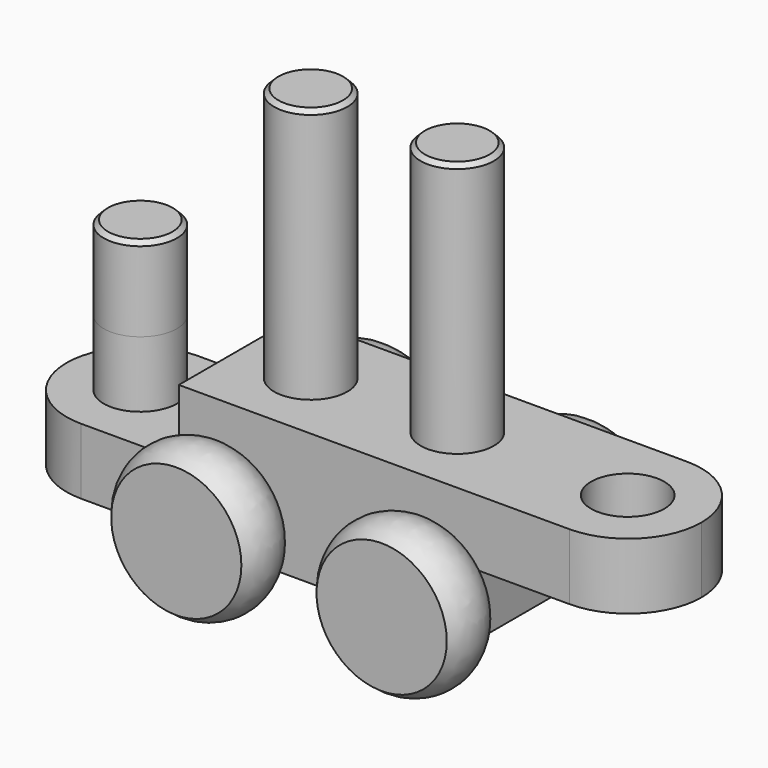
from build123d import *

# Parameters (mm, degrees)
F1_DEPTH  = 38.608
F2_DEPTH  = 74.6252
F3_DEPTH  = 19.304
F4_DEPTH  = 38.608
F5_DEPTH  = 19.304
F6_DEPTH  = 24.5872
F7_SIZE   = 1.27
F8_SIZE   = 1.27
F9_SIZE   = 1.27
F10_R     = 7.62
F10_R_2   = 6.35
F11_DEPTH = 42.8752
F12_DEPTH = 1.27
F13_DEPTH = 1.27


with BuildPart() as f1:
    # F0 (on Top) → F1 (new body)
    with BuildSketch(Plane.XY):
        with BuildLine():
            Line((0, 21.4376), (-42.8752, 21.4376))
            Line((-42.8752, 21.4376), (-42.8752, 0))
            Line((-42.8752, 0), (-32.1564, 0))
            ThreePointArc((-32.1564, 0), (-21.4376, 10.7188), (-10.7188, 0))
            Line((-10.7188, 0), (0, 0))
            Line((0, 0), (0, 21.4376))
        make_face()
        with BuildLine():
            Line((42.8752, 21.4376), (0, 21.4376))
            Line((0, 21.4376), (0, 0))
            Line((0, 0), (10.7188, 0))
            ThreePointArc((10.7188, 0), (21.4376, 10.7188), (32.1564, 0))
            Line((32.1564, 0), (42.8752, 0))
            Line((42.8752, 0), (42.8752, 21.4376))
        make_face()
        with BuildLine():
            ThreePointArc((-10.7188, 0), (-21.4376, 10.7188), (-32.1564, 0))
            Line((-32.1564, 0), (-10.7188, 0))
        make_face()
        with BuildLine():
            Line((-10.7188, 0), (-32.1564, 0))
            ThreePointArc((-32.1564, 0), (-21.4376, -10.7188), (-10.7188, 0))
        make_face()
        with BuildLine():
            ThreePointArc((32.1564, 0), (21.4376, 10.7188), (10.7188, 0))
            Line((10.7188, 0), (32.1564, 0))
        make_face()
        with BuildLine():
            Line((32.1564, 0), (10.7188, 0))
            ThreePointArc((10.7188, 0), (21.4376, -10.7188), (32.1564, 0))
        make_face()
        with BuildLine():
            Line((-32.1564, 0), (-42.8752, 0))
            Line((-42.8752, 0), (-42.8752, -21.4376))
            Line((-42.8752, -21.4376), (0, -21.4376))
            Line((0, -21.4376), (0, 0))
            Line((0, 0), (-10.7188, 0))
            ThreePointArc((-10.7188, 0), (-21.4376, -10.7188), (-32.1564, 0))
        make_face()
        with BuildLine():
            Line((10.7188, 0), (0, 0))
            Line((0, 0), (0, -21.4376))
            Line((0, -21.4376), (42.8752, -21.4376))
            Line((42.8752, -21.4376), (42.8752, 0))
            Line((42.8752, 0), (32.1564, 0))
            ThreePointArc((32.1564, 0), (21.4376, -10.7188), (10.7188, 0))
        make_face()
        with BuildLine():
            Line((-10.7188, 0), (-32.1564, 0))
            ThreePointArc((-32.1564, 0), (-21.4376, -10.7188), (-10.7188, 0))
        make_face()
        with BuildLine():
            ThreePointArc((-10.7188, 0), (-21.4376, 10.7188), (-32.1564, 0))
            Line((-32.1564, 0), (-10.7188, 0))
        make_face()
    extrude(amount=-F1_DEPTH)

    # F0 (on Top) → F2 (join)
    with BuildSketch(Plane.XY):
        with BuildLine():
            Line((-10.7188, 0), (-32.1564, 0))
            ThreePointArc((-32.1564, 0), (-21.4376, -10.7188), (-10.7188, 0))
        make_face()
        with BuildLine():
            ThreePointArc((-10.7188, 0), (-21.4376, 10.7188), (-32.1564, 0))
            Line((-32.1564, 0), (-10.7188, 0))
        make_face()
        with BuildLine():
            ThreePointArc((32.1564, 0), (21.4376, 10.7188), (10.7188, 0))
            Line((10.7188, 0), (32.1564, 0))
        make_face()
        with BuildLine():
            Line((32.1564, 0), (10.7188, 0))
            ThreePointArc((10.7188, 0), (21.4376, -10.7188), (32.1564, 0))
        make_face()
    extrude(amount=F2_DEPTH)

    # F0 (on Top) → F3 (join)
    with BuildSketch(Plane.XY):
        with BuildLine():
            Line((71.4502, 21.4376), (42.8752, 21.4376))
            Line((42.8752, 21.4376), (42.8752, 0))
            Line((42.8752, 0), (60.580153351, 0))
            ThreePointArc((60.580153351, 0), (71.298953351, 10.7188), (82.017753351, 0))
            Line((82.017753351, 0), (92.8878, 0))
            ThreePointArc((92.8878, 0), (86.6088723324, 15.1586723324), (71.4502, 21.4376))
        make_face()
        with BuildLine():
            Line((60.580153351, 0), (42.8752, 0))
            Line((42.8752, 0), (42.8752, -21.4376))
            Line((42.8752, -21.4376), (71.4502, -21.4376))
            ThreePointArc((71.4502, -21.4376), (86.6088723324, -15.1586723324), (92.8878, 0))
            Line((92.8878, 0), (82.017753351, 0))
            ThreePointArc((82.017753351, 0), (71.298953351, -10.7188), (60.580153351, 0))
        make_face()
    extrude(amount=-F3_DEPTH)

    # F0 (on Top) → F4 (join)
    with BuildSketch(Plane.XY):
        with BuildLine():
            Line((-42.8752, 0), (-42.8752, 21.4376))
            Line((-42.8752, 21.4376), (-71.4502, 21.4376))
            ThreePointArc((-71.4502, 21.4376), (-86.6088723324, 15.1586723324), (-92.8878, 0))
            Line((-92.8878, 0), (-82.017753351, 0))
            ThreePointArc((-82.017753351, 0), (-71.298953351, 10.7188), (-60.580153351, 0))
            Line((-60.580153351, 0), (-42.8752, 0))
        make_face()
        with BuildLine():
            Line((-42.8752, -21.4376), (-42.8752, 0))
            Line((-42.8752, 0), (-60.580153351, 0))
            ThreePointArc((-60.580153351, 0), (-71.298953351, -10.7188), (-82.017753351, 0))
            Line((-82.017753351, 0), (-92.8878, 0))
            ThreePointArc((-92.8878, 0), (-86.6088723324, -15.1586723324), (-71.4502, -21.4376))
            Line((-71.4502, -21.4376), (-42.8752, -21.4376))
        make_face()
        with BuildLine():
            Line((-82.017753351, 0), (-60.580153351, 0))
            ThreePointArc((-60.580153351, 0), (-71.298953351, 10.7188), (-82.017753351, 0))
        make_face()
        with BuildLine():
            ThreePointArc((-82.017753351, 0), (-71.298953351, -10.7188), (-60.580153351, 0))
            Line((-60.580153351, 0), (-82.017753351, 0))
        make_face()
    extrude(amount=-F4_DEPTH)

    # F0 (on Top) → F5 (cut)
    with BuildSketch(Plane.XY):
        with BuildLine():
            Line((-42.8752, 0), (-42.8752, 21.4376))
            Line((-42.8752, 21.4376), (-71.4502, 21.4376))
            ThreePointArc((-71.4502, 21.4376), (-86.6088723324, 15.1586723324), (-92.8878, 0))
            Line((-92.8878, 0), (-82.017753351, 0))
            ThreePointArc((-82.017753351, 0), (-71.298953351, 10.7188), (-60.580153351, 0))
            Line((-60.580153351, 0), (-42.8752, 0))
        make_face()
        with BuildLine():
            Line((-42.8752, -21.4376), (-42.8752, 0))
            Line((-42.8752, 0), (-60.580153351, 0))
            ThreePointArc((-60.580153351, 0), (-71.298953351, -10.7188), (-82.017753351, 0))
            Line((-82.017753351, 0), (-92.8878, 0))
            ThreePointArc((-92.8878, 0), (-86.6088723324, -15.1586723324), (-71.4502, -21.4376))
            Line((-71.4502, -21.4376), (-42.8752, -21.4376))
        make_face()
    extrude(amount=-F5_DEPTH, mode=Mode.SUBTRACT)

    # F0 (on Top) → F6 (join)
    with BuildSketch(Plane.XY):
        with BuildLine():
            Line((-82.017753351, 0), (-60.580153351, 0))
            ThreePointArc((-60.580153351, 0), (-71.298953351, 10.7188), (-82.017753351, 0))
        make_face()
        with BuildLine():
            ThreePointArc((-82.017753351, 0), (-71.298953351, -10.7188), (-60.580153351, 0))
            Line((-60.580153351, 0), (-82.017753351, 0))
        make_face()
    extrude(amount=F6_DEPTH)

    # F7
    f7_edges = [f1.edges().sort_by_distance(p)[0] for p in [
        (-32.1564, 0, 74.6252),
    ]]
    chamfer(f7_edges, length=F7_SIZE)

    # F8
    f8_edges = [f1.edges().sort_by_distance(p)[0] for p in [
        (32.1564, 0, 74.6252),
    ]]
    chamfer(f8_edges, length=F8_SIZE)

    # F9
    f9_edges = [f1.edges().sort_by_distance(p)[0] for p in [
        (-60.580153, 0, 24.5872),
    ]]
    chamfer(f9_edges, length=F9_SIZE)

    # F10 (on face) → F11 (cut, through all)
    with BuildSketch(Plane.XZ.offset(21.4376)):
        with BuildLine():
            Line((36.5252, -29.083), (37.7952, -29.083))
            ThreePointArc((37.7952, -29.083), (30.1752, -21.463), (22.5552, -29.083))
            Line((22.5552, -29.083), (23.8252, -29.083))
            ThreePointArc((23.8252, -29.083), (30.1752, -22.733), (36.5252, -29.083))
        make_face()
        with BuildLine():
            ThreePointArc((22.5552, -29.083), (30.1752, -36.703), (37.7952, -29.083))
            Line((37.7952, -29.083), (36.5252, -29.083))
            ThreePointArc((36.5252, -29.083), (30.1752, -35.433), (23.8252, -29.083))
            Line((23.8252, -29.083), (22.5552, -29.083))
        make_face()
        with Locations((-29.9122084, -29.083)):
            Circle(F10_R)
        with Locations((-29.9122084, -29.083)):
            Circle(F10_R_2, mode=Mode.SUBTRACT)
    extrude(amount=-F11_DEPTH, mode=Mode.SUBTRACT)

    # F12 (add): faces of the model
    f12_faces = [f1.faces().sort_by_distance(p)[0] for p in [
        (30.1752, -21.4376, -29.083),
        (-29.9122084, -21.4376, -29.083),
    ]]
    extrude(f12_faces, amount=F12_DEPTH)

    # F13 (add): faces of the model
    f13_faces = [f1.faces().sort_by_distance(p)[0] for p in [
        (-29.9122084, 21.4376, -29.083),
        (30.1752, 21.4376, -29.083),
    ]]
    extrude(f13_faces, amount=F13_DEPTH)


with BuildPart() as f16:
    # F15 (on line) → F16 (revolve)
    with BuildSketch(Plane.XY.offset(-29.083)):
        with BuildLine():
            Line((-10.8622084, -22.7076), (-23.5622084, -22.7076))
            Line((-23.5622084, -22.7076), (-29.9122084, -22.7076))
            Line((-29.9122084, -22.7076), (-29.9122084, -38.5826))
            Line((-29.9122084, -38.5826), (-10.8622084, -38.5826))
            ThreePointArc((-10.8622084, -38.5826), (-7.6872084, -30.6451), (-10.8622084, -22.7076))
        make_face()
    revolve(axis=Axis((-29.9122084, -30.6451, -29.083), (0, -1, 0)))


with BuildPart() as f17:
    # F15 (on line) → F17 (revolve)
    with BuildSketch(Plane.XY.offset(-29.083)):
        with BuildLine():
            Line((49.2252, -22.7076), (36.5252, -22.7076))
            Line((36.5252, -22.7076), (30.1752, -22.7076))
            Line((30.1752, -22.7076), (30.1752, -38.5826))
            Line((30.1752, -38.5826), (49.2252, -38.5826))
            ThreePointArc((49.2252, -38.5826), (52.4002, -30.6451), (49.2252, -22.7076))
        make_face()
    revolve(axis=Axis((30.1752, -30.6451, -29.083), (0, -1, 0)))


with BuildPart() as f18_1:
    # F18: instance of F16
    add(f16.part.mirror(Plane.XZ))


with BuildPart() as f18_2:
    # F18: instance of F17
    add(f17.part.mirror(Plane.XZ))


solid = Compound([f1.part, f16.part, f17.part, f18_1.part, f18_2.part])
